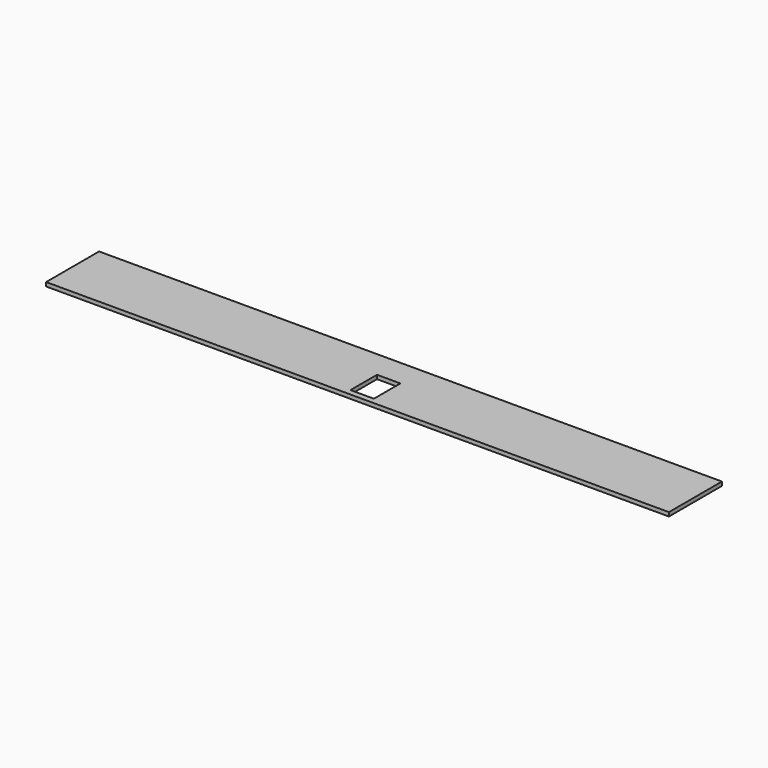
from build123d import *

# Parameters (mm, degrees)
SKETCH_W   = 1598
SKETCH_H   = 170
SKETCH_W_2 = 60
SKETCH_H_2 = 85
PAD_DEPTH  = 10


with BuildPart() as part:
    # Sketch → Pad (new body)
    with BuildSketch(Plane.XY):
        with Locations((799, 85)):
            Rectangle(SKETCH_W, SKETCH_H)
        with Locations((799, 57.5)):
            Rectangle(SKETCH_W_2, SKETCH_H_2, mode=Mode.SUBTRACT)
    extrude(amount=PAD_DEPTH)


solid = part.part
